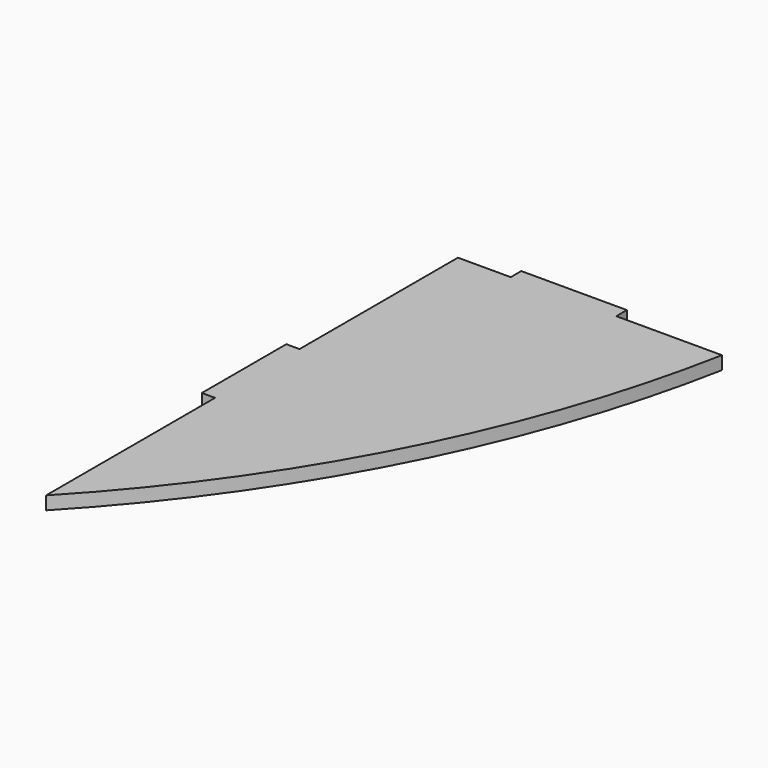
from build123d import *

# Parameters (mm, degrees)
F1_DEPTH = 3.175


with BuildPart() as f1:
    # F0 (on Top) → F1 (new body)
    with BuildSketch(Plane.XY):
        with BuildLine():
            Line((3.175, 63.5), (-22.225, 63.5))
            Line((-22.225, 63.5), (-22.225, 60.325))
            Line((-22.225, 60.325), (-34.925, 60.325))
            Line((-34.925, 60.325), (-34.925, 12.7))
            Line((-34.925, 12.7), (-38.1, 12.7))
            Line((-38.1, 12.7), (-38.1, -12.7))
            Line((-38.1, -12.7), (-34.925, -12.7))
            Line((-34.925, -12.7), (-34.925, -60.325))
            Line((-34.925, -60.325), (-34.925, -63.5))
            ThreePointArc((-34.925, -63.5), (5.716612, -6.148907), (28.576396, 60.321527))
            Line((28.576396, 60.321527), (3.175, 60.321527))
            Line((3.175, 60.321527), (3.175, 63.5))
        make_face()
    extrude(amount=F1_DEPTH)


solid = f1.part
